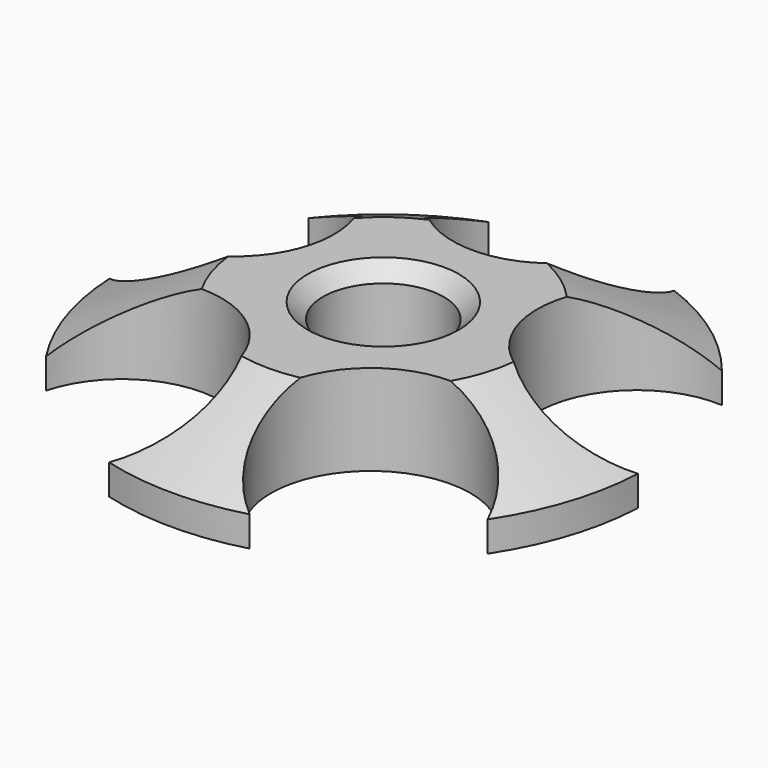
from build123d import *

# Parameters (mm, degrees)
F0_R     = 2
F1_DEPTH = 3
F2_SIZE2 = 2
F2_SIZE  = 4
F3_SIZE  = 0.5


with BuildPart() as f1:
    # F0 (on Top) → F1 (new body)
    with BuildSketch(Plane.XY):
        with BuildLine():
            ThreePointArc((-6.8389636709, 5.4581201808), (-3.5189091103, 1.1433628792), (-8.7410403812, -0.3958699968))
            ThreePointArc((-8.7410403812, -0.3958699968), (-8.3217445176, -2.7038987008), (-7.3043367629, -4.8175890707))
            ThreePointArc((-7.3043367629, -4.8175890707), (-2.1748054335, -2.9933628792), (-2.3246352862, -8.4355539703))
            ThreePointArc((-2.3246352862, -8.4355539703), (0, -8.75), (2.3246352862, -8.4355539703))
            ThreePointArc((2.3246352862, -8.4355539703), (2.1748054335, -2.9933628792), (7.3043367629, -4.8175890707))
            ThreePointArc((7.3043367629, -4.8175890707), (8.3217445176, -2.7038987008), (8.7410403812, -0.3958699968))
            ThreePointArc((8.7410403812, -0.3958699968), (3.5189091103, 1.1433628792), (6.8389636709, 5.4581201808))
            ThreePointArc((6.8389636709, 5.4581201808), (5.1431209576, 7.0788987008), (3.0776247664, 8.1908928571))
            ThreePointArc((3.0776247664, 8.1908928571), (0, 3.7), (-3.0776247664, 8.1908928571))
            ThreePointArc((-3.0776247664, 8.1908928571), (-5.1431209576, 7.0788987008), (-6.8389636709, 5.4581201808))
        make_face()
        Circle(F0_R, mode=Mode.SUBTRACT)
    extrude(amount=F1_DEPTH)

    # F2
    f2_edges = [f1.edges().sort_by_distance(p)[0] for p in [
        (-8.321745, -2.703899, 3),
        (0, -8.75, 3),
        (8.321745, -2.703899, 3),
        (5.143121, 7.078899, 3),
        (-5.143121, 7.078899, 3),
    ]]
    f2_side = f1.faces().sort_by_distance((0, 3.456563, 3))[0]
    chamfer(f2_edges, length=F2_SIZE, length2=F2_SIZE2, reference=f2_side)

    # F3
    f3_edges = [f1.edges().sort_by_distance(p)[0] for p in [
        (-2, 0, 3),
    ]]
    chamfer(f3_edges, length=F3_SIZE)


solid = f1.part
